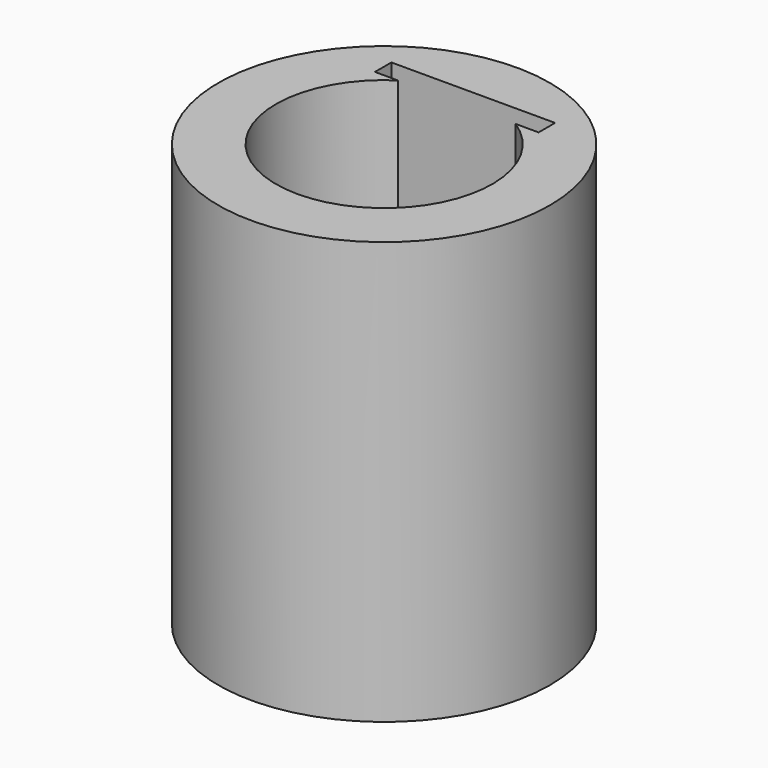
from build123d import *

# Parameters (mm, degrees)
CYLINDER002_R     = 3.14
CYLINDER002_DEPTH = 8
CYLINDER003_R     = 2.05
CYLINDER003_DEPTH = 14
BOX002_W          = 3.1
BOX002_H          = 0.39
BOX002_DEPTH      = 8.2


with BuildPart() as part:
    # Cylinder002 → Cylinder002 (join)
    with BuildSketch(Plane.XY.offset(4)):
        Circle(CYLINDER002_R)
    extrude(amount=CYLINDER002_DEPTH)

    # Cylinder003 → Cylinder003 (cut)
    with BuildSketch(Plane.XY.offset(3)):
        Circle(CYLINDER003_R)
    extrude(amount=CYLINDER003_DEPTH, mode=Mode.SUBTRACT)

    # Box002 → Box002 (cut)
    with BuildSketch(Plane(origin=(-1.55, 1.72, 3.9), x_dir=(1, 0, 0), z_dir=(0, 0, 1))):
        with Locations((1.55, 0.195)):
            Rectangle(BOX002_W, BOX002_H)
    extrude(amount=BOX002_DEPTH, mode=Mode.SUBTRACT)


solid = part.part
